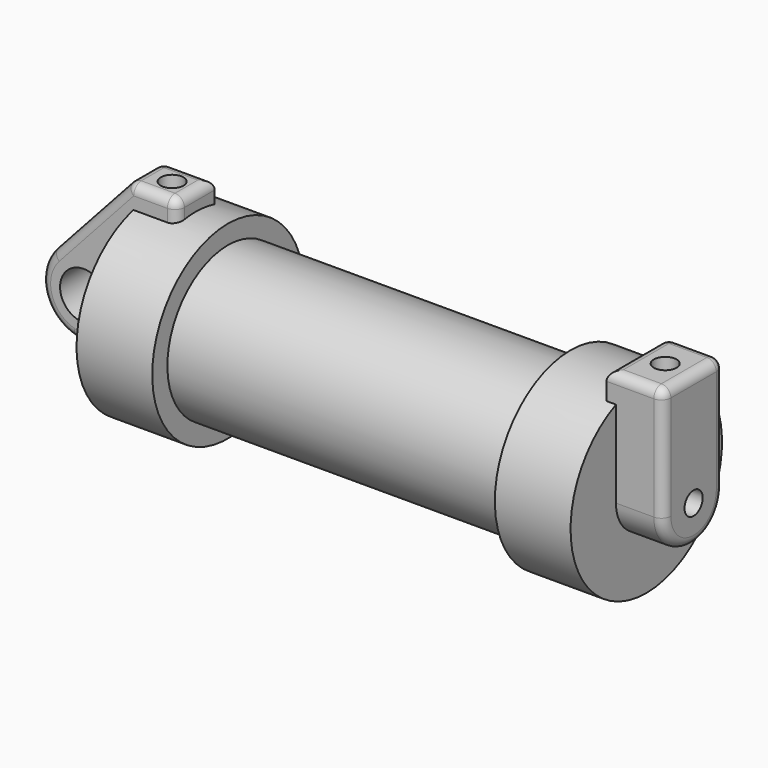
from build123d import *

# Parameters (mm, degrees)
F0_W          = 5.842
F0_H          = 12.7
F0_R          = 3.175
F2_DEPTH      = 3.175
F3_R          = 1.524
F4_DEPTH      = 6.35
F4_DEPTH_BACK = 1.27
F6_R          = 1.524
F7_DEPTH      = 17.78
F5_R          = 1.524
F8_DEPTH      = 10.414
F9_DEPTH      = 56.134
F10_R         = 1.27


with BuildPart() as f1:
    # F0 (on Front) → F1 (revolve)
    with BuildSketch(Plane.XZ):
        Polygon((5.842, 12.7), (5.842, 0), (66.294, 0), (66.294, 12.7), (56.134, 12.7), (56.134, 10.16), (10.16, 10.16), (10.16, 12.7), align=None)
        with Locations((2.921, 6.35)):
            Rectangle(F0_W, F0_H)
    revolve(axis=Axis((33.147, 0, 0), (-1, 0, 0)))

    # F0 (on Front) → F2 (join, symmetric)
    with BuildSketch(Plane.XZ):
        with Locations((2.921, 6.35)):
            Rectangle(F0_W, F0_H)
        with BuildLine():
            Line((-0.9398, 0), (0, 0))
            Line((0, 0), (0, 12.7))
            Line((0, 12.7), (5.842, 12.7))
            Line((5.842, 12.7), (5.842, 15.24))
            Line((5.842, 15.24), (-0.508, 15.24))
            Line((-0.508, 15.24), (-10.88063, 3.847543))
            ThreePointArc((-10.88063, 3.847543), (-4.591961, 5.329721), (-0.9398, 0))
        make_face()
        with BuildLine():
            ThreePointArc((-8.182663, -5.506983), (-3.195791, -4.549339), (-0.9398, 0))
            ThreePointArc((-0.9398, 0), (-4.591961, 5.329721), (-10.88063, 3.847543))
            ThreePointArc((-10.88063, 3.847543), (-12.145978, -1.583727), (-8.182663, -5.506983))
        make_face()
        with Locations((-6.6548, 0)):
            Circle(F0_R, mode=Mode.SUBTRACT)
        with BuildLine():
            Line((5.842, 0), (0, 0))
            Line((0, 0), (-0.9398, 0))
            ThreePointArc((-0.9398, 0), (-3.195791, -4.549339), (-8.182663, -5.506983))
            Line((-8.182663, -5.506983), (5.842, -9.398))
            Line((5.842, -9.398), (5.842, 0))
        make_face()
    extrude(amount=F2_DEPTH, both=True)

    # F3 (on face) → F4 (join, two sides)
    with BuildSketch(Plane.YZ.offset(66.294)) as f4_sk:
        with BuildLine():
            ThreePointArc((-5.08, 0), (0, -5.08), (5.08, 0))
            ThreePointArc((5.08, 0), (0, 5.08), (-5.08, 0))
        make_face()
        Circle(F3_R, mode=Mode.SUBTRACT)
        with BuildLine():
            ThreePointArc((-5.08, 0), (0, 5.08), (5.08, 0))
            Line((5.08, 0), (5.08, 15.24))
            Line((5.08, 15.24), (-5.08, 15.24))
            Line((-5.08, 15.24), (-5.08, 0))
        make_face()
    extrude(amount=F4_DEPTH)
    extrude(f4_sk.sketch, amount=-F4_DEPTH_BACK)

    # F6 (on face) → F7 (cut)
    with BuildSketch(Plane.XY.offset(15.24)):
        with Locations((2.667, 0)):
            Circle(F6_R)
    extrude(amount=-F7_DEPTH, mode=Mode.SUBTRACT)

    # F5 (on face) → F8 (cut)
    with BuildSketch(Plane.XY.offset(15.24)):
        with Locations((68.834, 0)):
            Circle(F5_R)
    extrude(amount=-F8_DEPTH, mode=Mode.SUBTRACT)

    # F3 (on face) → F9 (cut, through all)
    with BuildSketch(Plane.YZ.offset(66.294)):
        Circle(F3_R)
    extrude(amount=-F9_DEPTH, mode=Mode.SUBTRACT)

    # F10
    f10_edges = [f1.edges().sort_by_distance(p)[0] for p in [
        (65.024, 5.08, 13.439871),
        (65.024, 0, 15.24),
        (68.834, 5.08, 15.24),
        (72.644, 0, 15.24),
        (68.834, -5.08, 15.24),
        (72.644, 5.08, 7.62),
        (72.644, -5.08, 7.62),
        (2.667, 3.175, 15.24),
        (-5.694315, 3.175, 9.543772),
        (5.842, 0, 15.24),
        (2.667, -3.175, 15.24),
        (5.842, -3.175, 13.768361),
        (-0.508, 0, 15.24),
        (-5.694315, -3.175, 9.543772),
    ]]
    fillet(f10_edges, radius=F10_R)


solid = f1.part
